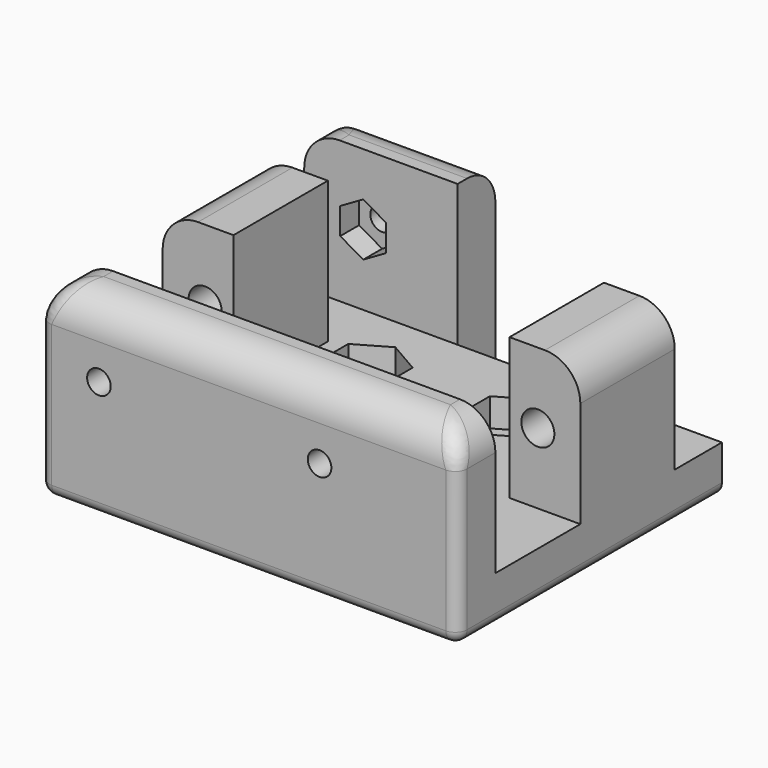
from build123d import *

# Parameters (mm, degrees)
SKETCH_W        = 35.4
SKETCH_H        = 24
PAD_DEPTH       = 4
SKETCH001_W     = 35.4
SKETCH001_H     = 4
PAD001_DEPTH    = 16
SKETCH003_W     = 6
SKETCH003_H     = 10
PAD003_DEPTH    = 16
SKETCH004_R     = 1.4
POCKET_DEPTH    = 10
SKETCH005_W     = 6
SKETCH005_H     = 10
PAD004_DEPTH    = 16
SKETCH006_R     = 1.4
POCKET001_DEPTH = 10
SKETCH007_W     = 13
SKETCH007_H     = 4
PAD005_DEPTH    = 16
POCKET002_DEPTH = 2.4
SKETCH009_R     = 1.5
POCKET003_DEPTH = 5
POCKET004_DEPTH = 2
SKETCH011_R     = 1
POCKET005_DEPTH = 5
POCKET006_DEPTH = 2
SKETCH013_R     = 1
POCKET007_DEPTH = 5
FILLET_R        = 1
FILLET001_R     = 1
FILLET002_R     = 1
FILLET003_R     = 1
FILLET004_R     = 3
FILLET005_R     = 3
FILLET006_R     = 3
FILLET007_R     = 3


with BuildPart() as part:
    # Sketch → Pad (new body)
    with BuildSketch(Plane.XY):
        with Locations((17.7, 16)):
            Rectangle(SKETCH_W, SKETCH_H)
    extrude(amount=PAD_DEPTH)

    # Sketch001 → Pad001 (join)
    with BuildSketch(Plane.XY):
        with Locations((17.7, 2)):
            Rectangle(SKETCH001_W, SKETCH001_H)
    extrude(amount=PAD001_DEPTH)

    # Sketch003 → Pad003 (join)
    with BuildSketch(Plane.XY):
        with Locations((3, 18)):
            Rectangle(SKETCH003_W, SKETCH003_H)
    extrude(amount=PAD003_DEPTH)

    # Sketch004 (on Face14 of Pad003) → Pocket (cut)
    with BuildSketch(Plane(origin=(0, 23, 0), x_dir=(-1, 0, 0), z_dir=(0, 1, 0))):
        with Locations((-3.6, 10)):
            Circle(SKETCH004_R)
    extrude(amount=-POCKET_DEPTH, mode=Mode.SUBTRACT)

    # Sketch005 → Pad004 (join)
    with BuildSketch(Plane.XY):
        with Locations((32.4, 18)):
            Rectangle(SKETCH005_W, SKETCH005_H)
    extrude(amount=PAD004_DEPTH)

    # Sketch006 (on Face13 of Pad004) → Pocket001 (cut)
    with BuildSketch(Plane(origin=(0, 23, 0), x_dir=(-1, 0, 0), z_dir=(0, 1, 0))):
        with Locations((-31.8, 10)):
            Circle(SKETCH006_R)
    extrude(amount=-POCKET001_DEPTH, mode=Mode.SUBTRACT)

    # Sketch007 (on Face4 of Pocket001) → Pad005 (join)
    with BuildSketch(Plane(origin=(0, 0, 0), x_dir=(1, 0, 0), z_dir=(0, 0, -1))):
        with Locations((6.5, -30)):
            Rectangle(SKETCH007_W, SKETCH007_H)
    extrude(amount=-PAD005_DEPTH)

    # Sketch008 (on Face4 of Pad005) → Pocket002 (cut)
    with BuildSketch(Plane.XY.offset(4)):
        Polygon((12.72798, 20.425), (12.72798, 23.575), (10, 25.15), (7.27202, 23.575), (7.27202, 20.425), (10, 18.85), align=None)
        Polygon((24.72798, 20.425), (24.72798, 23.575), (22, 25.15), (19.27202, 23.575), (19.27202, 20.425), (22, 18.85), align=None)
        Polygon((12.72798, 11.575), (10, 13.15), (7.27202, 11.575), (7.27202, 8.425), (10, 6.85), (12.72798, 8.425), align=None)
        Polygon((24.72798, 8.425), (24.72798, 11.575), (22, 13.15), (19.27202, 11.575), (19.27202, 8.425), (22, 6.85), align=None)
    extrude(amount=-POCKET002_DEPTH, mode=Mode.SUBTRACT)

    # Sketch009 (on Face2 of Pocket002) → Pocket003 (cut)
    with BuildSketch(Plane(origin=(0, 0, 0), x_dir=(1, 0, 0), z_dir=(0, 0, -1))):
        with Locations((10, -10)):
            Circle(SKETCH009_R)
        with Locations((22, -10)):
            Circle(SKETCH009_R)
        with Locations((22, -22)):
            Circle(SKETCH009_R)
        with Locations((10, -22)):
            Circle(SKETCH009_R)
    extrude(amount=-POCKET003_DEPTH, mode=Mode.SUBTRACT)

    # Sketch010 (on Face25 of Pocket003) → Pocket004 (cut)
    with BuildSketch(Plane(origin=(0, 4, 0), x_dir=(-1, 0, 0), z_dir=(0, 1, 0))):
        Polygon((-3.051443, 8.875), (-3.051443, 11.125), (-5, 12.25), (-6.948557, 11.125), (-6.948557, 8.875), (-5, 7.75), align=None)
        Polygon((-21.751443, 8.875), (-21.751443, 11.125), (-23.7, 12.25), (-25.648557, 11.125), (-25.648557, 8.875), (-23.7, 7.75), align=None)
    extrude(amount=-POCKET004_DEPTH, mode=Mode.SUBTRACT)

    # Sketch011 (on Face55 of Pocket004) → Pocket005 (cut)
    with BuildSketch(Plane.XZ):
        with Locations((5, 10)):
            Circle(SKETCH011_R)
        with Locations((23.7, 10)):
            Circle(SKETCH011_R)
    extrude(amount=-POCKET005_DEPTH, mode=Mode.SUBTRACT)

    # Sketch012 (on Face18 of Pocket005) → Pocket006 (cut)
    with BuildSketch(Plane.XZ.offset(-28)):
        Polygon((6.948557, 11.125), (5, 12.25), (3.051443, 11.125), (3.051443, 8.875), (5, 7.75), (6.948557, 8.875), align=None)
    extrude(amount=-POCKET006_DEPTH, mode=Mode.SUBTRACT)

    # Sketch013 (on Face50 of Pocket006) → Pocket007 (cut)
    with BuildSketch(Plane(origin=(0, 32, 0), x_dir=(-1, 0, 0), z_dir=(0, 1, 0))):
        with Locations((-5, 10)):
            Circle(SKETCH013_R)
    extrude(amount=-POCKET007_DEPTH, mode=Mode.SUBTRACT)

    # Fillet
    fillet_edges = [part.edges().sort_by_distance(p)[0] for p in [
        (0, 18, 0),
    ]]
    fillet(fillet_edges, radius=FILLET_R)

    # Fillet001
    fillet001_edges = [part.edges().sort_by_distance(p)[0] for p in [
        (35.4, 18, 0),
    ]]
    fillet(fillet001_edges, radius=FILLET001_R)

    # Fillet002
    fillet002_edges = [part.edges().sort_by_distance(p)[0] for p in [
        (17.7, 0, 0),
    ]]
    fillet(fillet002_edges, radius=FILLET002_R)

    # Fillet003
    fillet003_edges = [part.edges().sort_by_distance(p)[0] for p in [
        (7, 32, 0),
    ]]
    fillet(fillet003_edges, radius=FILLET003_R)

    # Fillet004
    fillet004_edges = [part.edges().sort_by_distance(p)[0] for p in [
        (0, 18, 16),
    ]]
    fillet(fillet004_edges, radius=FILLET004_R)

    # Fillet005
    fillet005_edges = [part.edges().sort_by_distance(p)[0] for p in [
        (0, 29.5, 16),
    ]]
    fillet(fillet005_edges, radius=FILLET005_R)

    # Fillet006
    fillet006_edges = [part.edges().sort_by_distance(p)[0] for p in [
        (0, 2.5, 16),
    ]]
    fillet(fillet006_edges, radius=FILLET006_R)

    # Fillet007
    fillet007_edges = [part.edges().sort_by_distance(p)[0] for p in [
        (35.4, 18, 16),
    ]]
    fillet(fillet007_edges, radius=FILLET007_R)


solid = part.part
